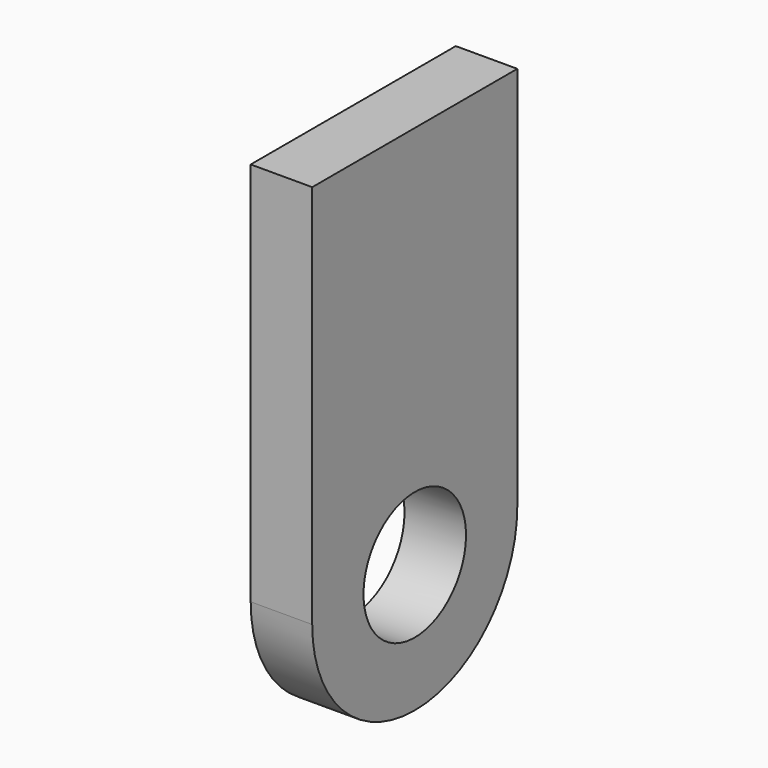
from build123d import *

# Parameters (mm, degrees)
SKETCH_W     = 1.2
SKETCH_H     = 5
PAD_DEPTH    = 10
SKETCH001_R  = 1.25
POCKET_DEPTH = 1.2
FILLET_R     = 2.49


with BuildPart() as part:
    # Sketch → Pad (new body)
    with BuildSketch(Plane.XY):
        Rectangle(SKETCH_W, SKETCH_H)
    extrude(amount=-PAD_DEPTH)

    # Sketch001 (on Face3 of Pad) → Pocket (cut)
    with BuildSketch(Plane.YZ.offset(0.6)):
        with Locations((0, -7.5)):
            Circle(SKETCH001_R)
    extrude(amount=-POCKET_DEPTH, mode=Mode.SUBTRACT)

    # Fillet
    fillet_edges = [part.edges().sort_by_distance(p)[0] for p in [
        (0, -2.5, -10),
        (0, 2.5, -10),
    ]]
    fillet(fillet_edges, radius=FILLET_R)


solid = part.part
